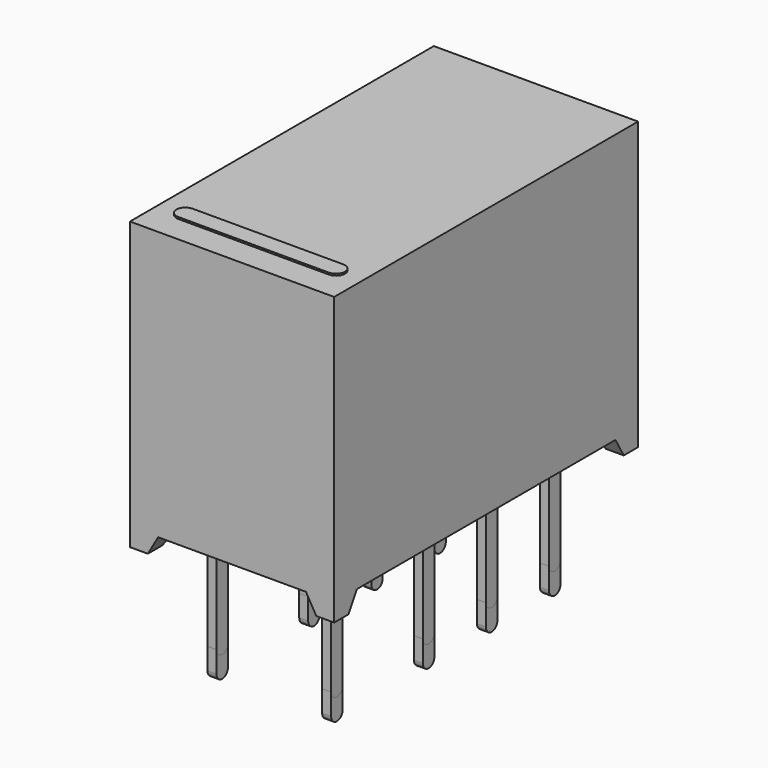
from build123d import *

# Parameters (mm, degrees)
SKETCH_W                      = 5.7
SKETCH_H                      = 10.6
PAD_DEPTH                     = 8
POCKET_DEPTH                  = 5.701
POCKET005_DEPTH               = 10.601
POCKET006_DEPTH               = 0.1
POCKET006_MIRRORED_2_DEPTH    = 0.1
PAD011_DEPTH                  = 0.05
PAD012_DEPTH                  = 0.05
PAD005_DEPTH                  = 0.125
ARRAY001_Y_COUNT              = 3
ARRAY001_Y_PITCH              = 2.2
ARRAY_Y_COUNT                 = 3
ARRAY_Y_PITCH                 = 2.2
SKETCH023_W                   = 5.7
SKETCH023_H                   = 10.6
PAD013_DEPTH                  = 8
POCKET008_DEPTH               = 5.701
POCKET009_DEPTH               = 10.601
POCKET007_DEPTH               = 0.1
POCKET007_MIRRORED002_2_DEPTH = 0.1
PAD017_DEPTH                  = 0.05
PAD016_DEPTH                  = 0.05
PAD014_DEPTH                  = 0.125
ARRAY003_Y_COUNT              = 3
ARRAY003_Y_PITCH              = 2.2
ARRAY002_Y_COUNT              = 3
ARRAY002_Y_PITCH              = 2.2
SKETCH029_W                   = 5.7
SKETCH029_H                   = 10.6
PAD019_DEPTH                  = 8
POCKET010_DEPTH               = 5.701
POCKET012_DEPTH               = 10.601
POCKET011_DEPTH               = 0.1
POCKET011_MIRRORED004_2_DEPTH = 0.1
PAD021_DEPTH                  = 0.05
PAD022_DEPTH                  = 0.05
PAD018_DEPTH                  = 0.125
ARRAY005_Y_COUNT              = 3
ARRAY005_Y_PITCH              = 2.2
ARRAY004_Y_COUNT              = 3
ARRAY004_Y_PITCH              = 2.2
SKETCH036_W                   = 5.7
SKETCH036_H                   = 10.6
PAD024_DEPTH                  = 8
POCKET013_DEPTH               = 5.701
POCKET015_DEPTH               = 10.601
POCKET014_DEPTH               = 0.1
POCKET014_MIRRORED006_2_DEPTH = 0.1
PAD026_DEPTH                  = 0.05
PAD027_DEPTH                  = 0.05
PAD023_DEPTH                  = 0.125
ARRAY007_Y_COUNT              = 3
ARRAY007_Y_PITCH              = 2.2
ARRAY006_Y_COUNT              = 3
ARRAY006_Y_PITCH              = 2.2
PAD029_DEPTH                  = 0.125
ARRAY008_Y_COUNT              = 3
ARRAY008_Y_PITCH              = 2.2
ARRAY009_Y_COUNT              = 3
ARRAY009_Y_PITCH              = 2.2
SKETCH040_W                   = 5.7
SKETCH040_H                   = 10.6
PAD030_DEPTH                  = 8
POCKET018_DEPTH               = 5.701
POCKET016_DEPTH               = 10.601
POCKET017_DEPTH               = 0.1
POCKET017_MIRRORED009_2_DEPTH = 0.1
PAD031_DEPTH                  = 0.05
PAD032_DEPTH                  = 0.05


with BuildPart() as obj1:
    # Sketch → Pad (new body)
    with BuildSketch(Plane.XY):
        Rectangle(SKETCH_W, SKETCH_H)
    extrude(amount=PAD_DEPTH)

    # Sketch003 (on Face2 of Pad) → Pocket (cut, through all)
    with BuildSketch(Plane(origin=(-2.85, 0, 0), x_dir=(0, -1, 0), z_dir=(-1, 0, 0))):
        Polygon((-4.8, 0), (-4.511325, 0.5), (4.511325, 0.5), (4.8, 0), align=None)
    extrude(amount=-POCKET_DEPTH, mode=Mode.SUBTRACT)

    # Sketch015 (on Face1 of Pocket) → Pocket005 (cut, through all)
    with BuildSketch(Plane.XZ.offset(5.3)):
        Polygon((-2.35, 0), (-2.061325, 0.5), (2.061325, 0.5), (2.35, 0), align=None)
    extrude(amount=-POCKET005_DEPTH, mode=Mode.SUBTRACT)

    # Sketch016 (on Face18 of Pocket005) → Pocket006 (cut)
    with BuildSketch(Plane(origin=(0, 0, 0.5), x_dir=(1, 0, 0), z_dir=(0, 0, -1))):
        Polygon((0, 0), (-2.65, 0), (-2.65, 4.311325), (-1.861325, 4.311325), (-1.861325, 5.1), (0, 5.1), align=None)
    pocket006 = extrude(amount=-POCKET006_DEPTH, mode=Mode.SUBTRACT)

    # Sketch016 Mirrored 2 → Pocket006 Mirrored 2 (cut)
    with BuildSketch(Plane(origin=(0, 0, 0.5), x_dir=(-1, 0, 0), z_dir=(0, 0, 1))):
        Polygon((0, 0), (-2.65, 0), (-2.65, 4.311325), (-1.861325, 4.311325), (-1.861325, 5.1), (0, 5.1), align=None)
    pocket006_mirrored_2 = extrude(amount=POCKET006_MIRRORED_2_DEPTH, mode=Mode.SUBTRACT)

    # Mirrored001: Pocket006, Pocket006 Mirrored 2 across XZ
    add(pocket006.mirror(Plane.XZ), mode=Mode.SUBTRACT)
    add(pocket006_mirrored_2.mirror(Plane.XZ), mode=Mode.SUBTRACT)

    # Sketch017 (on Face31 of MultiTransform) → Pad011 (join)
    with BuildSketch(Plane(origin=(0, 0, 0.6), x_dir=(1, 0, 0), z_dir=(0, 0, -1))):
        with BuildLine():
            Line((-1.136458, 2.948943), (1.092037, 2.888533))
            ThreePointArc((1.487685, 2.487288), (1.370611, 2.767535), (1.092037, 2.888533))
            Line((1.487685, 2.487288), (1.553104, -2.523073))
            ThreePointArc((1.146435, -2.935086), (1.435889, -2.814082), (1.553104, -2.523073))
            Line((1.146435, -2.935086), (-1.147479, -2.935086))
            ThreePointArc((-1.554182, -2.528383), (-1.435062, -2.815965), (-1.147479, -2.935086))
            Line((-1.554182, -2.528383), (-1.554182, 2.542389))
            ThreePointArc((-1.136458, 2.948943), (-1.431138, 2.833843), (-1.554182, 2.542389))
        make_face()
    extrude(amount=PAD011_DEPTH)

    # Sketch018 (on Face8 of Pad011) → Pad012 (join)
    with BuildSketch(Plane.XY.offset(8)):
        with BuildLine():
            ThreePointArc((-2.1, -4.05), (-2.35, -4.3), (-2.1, -4.55))
            Line((-2.1, -4.55), (2.1, -4.55))
            ThreePointArc((2.1, -4.55), (2.35, -4.3), (2.1, -4.05))
            Line((-2.1, -4.05), (2.1, -4.05))
        make_face()
    extrude(amount=PAD012_DEPTH)


with BuildPart() as body001:
    # Sketch009 → Pad005 (new body, symmetric)
    with BuildSketch(Plane.YZ.offset(1.6)):
        with BuildLine():
            ThreePointArc((-0.2, -3.2), (0, -3.4), (0.2, -3.2))
            Line((0.2, 0.5), (0.2, -3.2))
            Line((-0.2, 0.5), (0.2, 0.5))
            Line((-0.2, -3.2), (-0.2, 0.5))
        make_face()
    extrude(amount=PAD005_DEPTH, both=True)


with BuildPart() as body001_1:
    # Body001 placement: moved
    add(body001.part.moved(Location((0, -3.8, 0))))


with BuildPart() as body002:
    # Body002 base: copy of Body001
    add(body001_1.part)


with BuildPart() as body002_1:
    # Body002 placement: moved
    add(body002.part.moved(Location((-3.2, 0, 0))))


with BuildPart() as array001:
    # Body004 base: copy of Body002
    add(body002_1.part)


with BuildPart() as array001_1:
    # Body004 placement: moved
    add(array001.part.moved(Location((0, 3.2, 0))))

    # Array001 Y: Array001 ×3


with BuildPart() as array001_2:
    add(array001_1.part)
    with Locations(*[(0, i * ARRAY001_Y_PITCH, 0) for i in range(1, ARRAY001_Y_COUNT)]):
        add(array001_1.part)


with BuildPart() as obj2:
    # Body003 base: copy of Body001
    add(body001_1.part)


with BuildPart() as obj2_1:
    # Body003 placement: moved
    add(obj2.part.moved(Location((0, 3.2, 0))))

    # Array Y: obj2 ×3


with BuildPart() as obj2_2:
    add(obj2_1.part)
    with Locations(*[(0, i * ARRAY_Y_PITCH, 0) for i in range(1, ARRAY_Y_COUNT)]):
        add(obj2_1.part)

    # Fusion: union Array001, Body001, Body002
    add(array001_2.part)
    add(body001_1.part)
    add(body002_1.part)


with BuildPart() as obj3:
    # Sketch023 → Pad013 (new body)
    with BuildSketch(Plane.XY):
        Rectangle(SKETCH023_W, SKETCH023_H)
    extrude(amount=PAD013_DEPTH)

    # Sketch024 (on Face2 of Pad013) → Pocket008 (cut, through all)
    with BuildSketch(Plane(origin=(-2.85, 0, 0), x_dir=(0, -1, 0), z_dir=(-1, 0, 0))):
        Polygon((-4.8, 0), (-4.511325, 0.5), (4.511325, 0.5), (4.8, 0), align=None)
    extrude(amount=-POCKET008_DEPTH, mode=Mode.SUBTRACT)

    # Sketch019 (on Face1 of Pocket008) → Pocket009 (cut, through all)
    with BuildSketch(Plane.XZ.offset(5.3)):
        Polygon((-2.35, 0), (-2.061325, 0.5), (2.061325, 0.5), (2.35, 0), align=None)
    extrude(amount=-POCKET009_DEPTH, mode=Mode.SUBTRACT)

    # Sketch022 (on Face18 of Pocket009) → Pocket007 (cut)
    with BuildSketch(Plane(origin=(0, 0, 0.5), x_dir=(1, 0, 0), z_dir=(0, 0, -1))):
        Polygon((0, 0), (-2.65, 0), (-2.65, 4.311325), (-1.861325, 4.311325), (-1.861325, 5.1), (0, 5.1), align=None)
    pocket007 = extrude(amount=-POCKET007_DEPTH, mode=Mode.SUBTRACT)

    # Sketch022 Mirrored002 2 → Pocket007 Mirrored002 2 (cut)
    with BuildSketch(Plane(origin=(0, 0, 0.5), x_dir=(-1, 0, 0), z_dir=(0, 0, 1))):
        Polygon((0, 0), (-2.65, 0), (-2.65, 4.311325), (-1.861325, 4.311325), (-1.861325, 5.1), (0, 5.1), align=None)
    pocket007_mirrored002_2 = extrude(amount=POCKET007_MIRRORED002_2_DEPTH, mode=Mode.SUBTRACT)

    # Mirrored003: Pocket007, Pocket007 Mirrored002 2 across XZ
    add(pocket007.mirror(Plane.XZ), mode=Mode.SUBTRACT)
    add(pocket007_mirrored002_2.mirror(Plane.XZ), mode=Mode.SUBTRACT)

    # Sketch020 (on Face31 of MultiTransform001) → Pad017 (join)
    with BuildSketch(Plane(origin=(0, 0, 0.6), x_dir=(1, 0, 0), z_dir=(0, 0, -1))):
        with BuildLine():
            Line((-1.136458, 2.948943), (1.092037, 2.888533))
            ThreePointArc((1.487685, 2.487288), (1.370611, 2.767535), (1.092037, 2.888533))
            Line((1.487685, 2.487288), (1.553104, -2.523073))
            ThreePointArc((1.146435, -2.935086), (1.435889, -2.814082), (1.553104, -2.523073))
            Line((1.146435, -2.935086), (-1.147479, -2.935086))
            ThreePointArc((-1.554182, -2.528383), (-1.435062, -2.815965), (-1.147479, -2.935086))
            Line((-1.554182, -2.528383), (-1.554182, 2.542389))
            ThreePointArc((-1.136458, 2.948943), (-1.431138, 2.833843), (-1.554182, 2.542389))
        make_face()
    extrude(amount=PAD017_DEPTH)

    # Sketch021 (on Face8 of Pad017) → Pad016 (join)
    with BuildSketch(Plane.XY.offset(8)):
        with BuildLine():
            ThreePointArc((-2.1, -4.05), (-2.35, -4.3), (-2.1, -4.55))
            Line((-2.1, -4.55), (2.1, -4.55))
            ThreePointArc((2.1, -4.55), (2.35, -4.3), (2.1, -4.05))
            Line((-2.1, -4.05), (2.1, -4.05))
        make_face()
    extrude(amount=PAD016_DEPTH)


with BuildPart() as body007:
    # Sketch025 → Pad014 (new body, symmetric)
    with BuildSketch(Plane.YZ.offset(1.6)):
        with BuildLine():
            ThreePointArc((-0.2, -3.2), (0, -3.4), (0.2, -3.2))
            Line((0.2, 0.5), (0.2, -3.2))
            Line((-0.2, 0.5), (0.2, 0.5))
            Line((-0.2, -3.2), (-0.2, 0.5))
        make_face()
    extrude(amount=PAD014_DEPTH, both=True)


with BuildPart() as body007_1:
    # Body007 placement: moved
    add(body007.part.moved(Location((0, -3.8, 0))))


with BuildPart() as body009:
    # Body009 base: copy of Body007
    add(body007_1.part)


with BuildPart() as body009_1:
    # Body009 placement: moved
    add(body009.part.moved(Location((-3.2, 0, 0))))


with BuildPart() as array003:
    # Body005 base: copy of Body009
    add(body009_1.part)


with BuildPart() as array003_1:
    # Body005 placement: moved
    add(array003.part.moved(Location((0, 3.2, 0))))

    # Array003 Y: Array003 ×3


with BuildPart() as array003_2:
    add(array003_1.part)
    with Locations(*[(0, i * ARRAY003_Y_PITCH, 0) for i in range(1, ARRAY003_Y_COUNT)]):
        add(array003_1.part)


with BuildPart() as obj4:
    # Body006 base: copy of Body007
    add(body007_1.part)


with BuildPart() as obj4_1:
    # Body006 placement: moved
    add(obj4.part.moved(Location((0, 3.2, 0))))

    # Array002 Y: obj4 ×3


with BuildPart() as obj4_2:
    add(obj4_1.part)
    with Locations(*[(0, i * ARRAY002_Y_PITCH, 0) for i in range(1, ARRAY002_Y_COUNT)]):
        add(obj4_1.part)

    # Fusion001: union Array003, Body007, Body009
    add(array003_2.part)
    add(body007_1.part)
    add(body009_1.part)


with BuildPart() as obj5:
    # Sketch029 → Pad019 (new body)
    with BuildSketch(Plane.XY):
        Rectangle(SKETCH029_W, SKETCH029_H)
    extrude(amount=PAD019_DEPTH)

    # Sketch026 (on Face2 of Pad019) → Pocket010 (cut, through all)
    with BuildSketch(Plane(origin=(-2.85, 0, 0), x_dir=(0, -1, 0), z_dir=(-1, 0, 0))):
        Polygon((-4.8, 0), (-4.511325, 0.5), (4.511325, 0.5), (4.8, 0), align=None)
    extrude(amount=-POCKET010_DEPTH, mode=Mode.SUBTRACT)

    # Sketch030 (on Face1 of Pocket010) → Pocket012 (cut, through all)
    with BuildSketch(Plane.XZ.offset(5.3)):
        Polygon((-2.35, 0), (-2.061325, 0.5), (2.061325, 0.5), (2.35, 0), align=None)
    extrude(amount=-POCKET012_DEPTH, mode=Mode.SUBTRACT)

    # Sketch032 (on Face18 of Pocket012) → Pocket011 (cut)
    with BuildSketch(Plane(origin=(0, 0, 0.5), x_dir=(1, 0, 0), z_dir=(0, 0, -1))):
        Polygon((0, 0), (-2.65, 0), (-2.65, 4.311325), (-1.861325, 4.311325), (-1.861325, 5.1), (0, 5.1), align=None)
    pocket011 = extrude(amount=-POCKET011_DEPTH, mode=Mode.SUBTRACT)

    # Sketch032 Mirrored004 2 → Pocket011 Mirrored004 2 (cut)
    with BuildSketch(Plane(origin=(0, 0, 0.5), x_dir=(-1, 0, 0), z_dir=(0, 0, 1))):
        Polygon((0, 0), (-2.65, 0), (-2.65, 4.311325), (-1.861325, 4.311325), (-1.861325, 5.1), (0, 5.1), align=None)
    pocket011_mirrored004_2 = extrude(amount=POCKET011_MIRRORED004_2_DEPTH, mode=Mode.SUBTRACT)

    # Mirrored005: Pocket011, Pocket011 Mirrored004 2 across XZ
    add(pocket011.mirror(Plane.XZ), mode=Mode.SUBTRACT)
    add(pocket011_mirrored004_2.mirror(Plane.XZ), mode=Mode.SUBTRACT)

    # Sketch031 (on Face31 of MultiTransform002) → Pad021 (join)
    with BuildSketch(Plane(origin=(0, 0, 0.6), x_dir=(1, 0, 0), z_dir=(0, 0, -1))):
        with BuildLine():
            Line((-1.136458, 2.948943), (1.092037, 2.888533))
            ThreePointArc((1.487685, 2.487288), (1.370611, 2.767535), (1.092037, 2.888533))
            Line((1.487685, 2.487288), (1.553104, -2.523073))
            ThreePointArc((1.146435, -2.935086), (1.435889, -2.814082), (1.553104, -2.523073))
            Line((1.146435, -2.935086), (-1.147479, -2.935086))
            ThreePointArc((-1.554182, -2.528383), (-1.435062, -2.815965), (-1.147479, -2.935086))
            Line((-1.554182, -2.528383), (-1.554182, 2.542389))
            ThreePointArc((-1.136458, 2.948943), (-1.431138, 2.833843), (-1.554182, 2.542389))
        make_face()
    extrude(amount=PAD021_DEPTH)

    # Sketch028 (on Face8 of Pad021) → Pad022 (join)
    with BuildSketch(Plane.XY.offset(8)):
        with BuildLine():
            ThreePointArc((-2.1, -4.05), (-2.35, -4.3), (-2.1, -4.55))
            Line((-2.1, -4.55), (2.1, -4.55))
            ThreePointArc((2.1, -4.55), (2.35, -4.3), (2.1, -4.05))
            Line((-2.1, -4.05), (2.1, -4.05))
        make_face()
    extrude(amount=PAD022_DEPTH)


with BuildPart() as body014:
    # Sketch027 → Pad018 (new body, symmetric)
    with BuildSketch(Plane.YZ.offset(1.6)):
        with BuildLine():
            ThreePointArc((-0.2, -2.6), (0, -2.8), (0.2, -2.6))
            Line((0.2, 0.5), (0.2, -2.6))
            Line((-0.2, 0.5), (0.2, 0.5))
            Line((-0.2, -2.6), (-0.2, 0.5))
        make_face()
    extrude(amount=PAD018_DEPTH, both=True)


with BuildPart() as body014_1:
    # Body014 placement: moved
    add(body014.part.moved(Location((0, -3.8, 0))))


with BuildPart() as body013:
    # Body013 base: copy of Body014
    add(body014_1.part)


with BuildPart() as body013_1:
    # Body013 placement: moved
    add(body013.part.moved(Location((-3.2, 0, 0))))


with BuildPart() as array005:
    # Body011 base: copy of Body013
    add(body013_1.part)


with BuildPart() as array005_1:
    # Body011 placement: moved
    add(array005.part.moved(Location((0, 3.2, 0))))

    # Array005 Y: Array005 ×3


with BuildPart() as array005_2:
    add(array005_1.part)
    with Locations(*[(0, i * ARRAY005_Y_PITCH, 0) for i in range(1, ARRAY005_Y_COUNT)]):
        add(array005_1.part)


with BuildPart() as obj6:
    # Body010 base: copy of Body014
    add(body014_1.part)


with BuildPart() as obj6_1:
    # Body010 placement: moved
    add(obj6.part.moved(Location((0, 3.2, 0))))

    # Array004 Y: obj6 ×3


with BuildPart() as obj6_2:
    add(obj6_1.part)
    with Locations(*[(0, i * ARRAY004_Y_PITCH, 0) for i in range(1, ARRAY004_Y_COUNT)]):
        add(obj6_1.part)

    # Fusion002: union Array005, Body014, Body013
    add(array005_2.part)
    add(body014_1.part)
    add(body013_1.part)


with BuildPart() as obj7:
    # Sketch036 → Pad024 (new body)
    with BuildSketch(Plane.XY):
        Rectangle(SKETCH036_W, SKETCH036_H)
    extrude(amount=PAD024_DEPTH)

    # Sketch033 (on Face2 of Pad024) → Pocket013 (cut, through all)
    with BuildSketch(Plane(origin=(-2.85, 0, 0), x_dir=(0, -1, 0), z_dir=(-1, 0, 0))):
        Polygon((-4.8, 0), (-4.511325, 0.5), (4.511325, 0.5), (4.8, 0), align=None)
    extrude(amount=-POCKET013_DEPTH, mode=Mode.SUBTRACT)

    # Sketch037 (on Face1 of Pocket013) → Pocket015 (cut, through all)
    with BuildSketch(Plane.XZ.offset(5.3)):
        Polygon((-2.35, 0), (-2.061325, 0.5), (2.061325, 0.5), (2.35, 0), align=None)
    extrude(amount=-POCKET015_DEPTH, mode=Mode.SUBTRACT)

    # Sketch039 (on Face18 of Pocket015) → Pocket014 (cut)
    with BuildSketch(Plane(origin=(0, 0, 0.5), x_dir=(1, 0, 0), z_dir=(0, 0, -1))):
        Polygon((0, 0), (-2.65, 0), (-2.65, 4.311325), (-1.861325, 4.311325), (-1.861325, 5.1), (0, 5.1), align=None)
    pocket014 = extrude(amount=-POCKET014_DEPTH, mode=Mode.SUBTRACT)

    # Sketch039 Mirrored006 2 → Pocket014 Mirrored006 2 (cut)
    with BuildSketch(Plane(origin=(0, 0, 0.5), x_dir=(-1, 0, 0), z_dir=(0, 0, 1))):
        Polygon((0, 0), (-2.65, 0), (-2.65, 4.311325), (-1.861325, 4.311325), (-1.861325, 5.1), (0, 5.1), align=None)
    pocket014_mirrored006_2 = extrude(amount=POCKET014_MIRRORED006_2_DEPTH, mode=Mode.SUBTRACT)

    # Mirrored007: Pocket014, Pocket014 Mirrored006 2 across XZ
    add(pocket014.mirror(Plane.XZ), mode=Mode.SUBTRACT)
    add(pocket014_mirrored006_2.mirror(Plane.XZ), mode=Mode.SUBTRACT)

    # Sketch038 (on Face31 of MultiTransform003) → Pad026 (join)
    with BuildSketch(Plane(origin=(0, 0, 0.6), x_dir=(1, 0, 0), z_dir=(0, 0, -1))):
        with BuildLine():
            Line((-1.136458, 2.948943), (1.092037, 2.888533))
            ThreePointArc((1.487685, 2.487288), (1.370611, 2.767535), (1.092037, 2.888533))
            Line((1.487685, 2.487288), (1.553104, -2.523073))
            ThreePointArc((1.146435, -2.935086), (1.435889, -2.814082), (1.553104, -2.523073))
            Line((1.146435, -2.935086), (-1.147479, -2.935086))
            ThreePointArc((-1.554182, -2.528383), (-1.435062, -2.815965), (-1.147479, -2.935086))
            Line((-1.554182, -2.528383), (-1.554182, 2.542389))
            ThreePointArc((-1.136458, 2.948943), (-1.431138, 2.833843), (-1.554182, 2.542389))
        make_face()
    extrude(amount=PAD026_DEPTH)

    # Sketch035 (on Face8 of Pad026) → Pad027 (join)
    with BuildSketch(Plane.XY.offset(8)):
        with BuildLine():
            ThreePointArc((-2.1, -4.05), (-2.35, -4.3), (-2.1, -4.55))
            Line((-2.1, -4.55), (2.1, -4.55))
            ThreePointArc((2.1, -4.55), (2.35, -4.3), (2.1, -4.05))
            Line((-2.1, -4.05), (2.1, -4.05))
        make_face()
    extrude(amount=PAD027_DEPTH)


with BuildPart() as body019:
    # Sketch034 → Pad023 (new body, symmetric)
    with BuildSketch(Plane.YZ.offset(1.6)):
        with BuildLine():
            ThreePointArc((-0.2, -3.2), (0, -3.4), (0.2, -3.2))
            Line((0.2, 0.5), (0.2, -3.2))
            Line((-0.2, 0.5), (0.2, 0.5))
            Line((-0.2, -3.2), (-0.2, 0.5))
        make_face()
    extrude(amount=PAD023_DEPTH, both=True)


with BuildPart() as body019_1:
    # Body019 placement: moved
    add(body019.part.moved(Location((0, -3.8, 0))))


with BuildPart() as body018:
    # Body018 base: copy of Body019
    add(body019_1.part)


with BuildPart() as body018_1:
    # Body018 placement: moved
    add(body018.part.moved(Location((-3.2, 0, 0))))


with BuildPart() as array007:
    # Body016 base: copy of Body018
    add(body018_1.part)


with BuildPart() as array007_1:
    # Body016 placement: moved
    add(array007.part.moved(Location((0, 3.2, 0))))

    # Array007 Y: Array007 ×3


with BuildPart() as array007_2:
    add(array007_1.part)
    with Locations(*[(0, i * ARRAY007_Y_PITCH, 0) for i in range(1, ARRAY007_Y_COUNT)]):
        add(array007_1.part)


with BuildPart() as obj8:
    # Body015 base: copy of Body019
    add(body019_1.part)


with BuildPart() as obj8_1:
    # Body015 placement: moved
    add(obj8.part.moved(Location((0, 3.2, 0))))

    # Array006 Y: obj8 ×3


with BuildPart() as obj8_2:
    add(obj8_1.part)
    with Locations(*[(0, i * ARRAY006_Y_PITCH, 0) for i in range(1, ARRAY006_Y_COUNT)]):
        add(obj8_1.part)

    # Fusion003: union Array007, Body019, Body018
    add(array007_2.part)
    add(body019_1.part)
    add(body018_1.part)


with BuildPart() as body020:
    # Sketch043 → Pad029 (new body, symmetric)
    with BuildSketch(Plane.YZ.offset(1.6)):
        with BuildLine():
            ThreePointArc((-0.2, -2.6), (0, -2.8), (0.2, -2.6))
            Line((0.2, 0.5), (0.2, -2.6))
            Line((-0.2, 0.5), (0.2, 0.5))
            Line((-0.2, -2.6), (-0.2, 0.5))
        make_face()
    extrude(amount=PAD029_DEPTH, both=True)


with BuildPart() as body020_1:
    # Body020 placement: moved
    add(body020.part.moved(Location((0, -3.8, 0))))


with BuildPart() as body023:
    # Body023 base: copy of Body020
    add(body020_1.part)


with BuildPart() as body023_1:
    # Body023 placement: moved
    add(body023.part.moved(Location((-3.2, 0, 0))))


with BuildPart() as array008:
    # Body021 base: copy of Body023
    add(body023_1.part)


with BuildPart() as array008_1:
    # Body021 placement: moved
    add(array008.part.moved(Location((0, 3.2, 0))))

    # Array008 Y: Array008 ×3


with BuildPart() as array008_2:
    add(array008_1.part)
    with Locations(*[(0, i * ARRAY008_Y_PITCH, 0) for i in range(1, ARRAY008_Y_COUNT)]):
        add(array008_1.part)


with BuildPart() as obj9:
    # Body022 base: copy of Body020
    add(body020_1.part)


with BuildPart() as obj9_1:
    # Body022 placement: moved
    add(obj9.part.moved(Location((0, 3.2, 0))))

    # Array009 Y: obj9 ×3


with BuildPart() as obj9_2:
    add(obj9_1.part)
    with Locations(*[(0, i * ARRAY009_Y_PITCH, 0) for i in range(1, ARRAY009_Y_COUNT)]):
        add(obj9_1.part)

    # Fusion004: union Array008, Body020, Body023
    add(array008_2.part)
    add(body020_1.part)
    add(body023_1.part)


with BuildPart() as obj10:
    # Sketch040 → Pad030 (new body)
    with BuildSketch(Plane.XY):
        Rectangle(SKETCH040_W, SKETCH040_H)
    extrude(amount=PAD030_DEPTH)

    # Sketch042 (on Face2 of Pad030) → Pocket018 (cut, through all)
    with BuildSketch(Plane(origin=(-2.85, 0, 0), x_dir=(0, -1, 0), z_dir=(-1, 0, 0))):
        Polygon((-4.8, 0), (-4.511325, 0.5), (4.511325, 0.5), (4.8, 0), align=None)
    extrude(amount=-POCKET018_DEPTH, mode=Mode.SUBTRACT)

    # Sketch045 (on Face1 of Pocket018) → Pocket016 (cut, through all)
    with BuildSketch(Plane.XZ.offset(5.3)):
        Polygon((-2.35, 0), (-2.061325, 0.5), (2.061325, 0.5), (2.35, 0), align=None)
    extrude(amount=-POCKET016_DEPTH, mode=Mode.SUBTRACT)

    # Sketch046 (on Face18 of Pocket016) → Pocket017 (cut)
    with BuildSketch(Plane(origin=(0, 0, 0.5), x_dir=(1, 0, 0), z_dir=(0, 0, -1))):
        Polygon((0, 0), (-2.65, 0), (-2.65, 4.311325), (-1.861325, 4.311325), (-1.861325, 5.1), (0, 5.1), align=None)
    pocket017 = extrude(amount=-POCKET017_DEPTH, mode=Mode.SUBTRACT)

    # Sketch046 Mirrored009 2 → Pocket017 Mirrored009 2 (cut)
    with BuildSketch(Plane(origin=(0, 0, 0.5), x_dir=(-1, 0, 0), z_dir=(0, 0, 1))):
        Polygon((0, 0), (-2.65, 0), (-2.65, 4.311325), (-1.861325, 4.311325), (-1.861325, 5.1), (0, 5.1), align=None)
    pocket017_mirrored009_2 = extrude(amount=POCKET017_MIRRORED009_2_DEPTH, mode=Mode.SUBTRACT)

    # Mirrored008: Pocket017, Pocket017 Mirrored009 2 across XZ
    add(pocket017.mirror(Plane.XZ), mode=Mode.SUBTRACT)
    add(pocket017_mirrored009_2.mirror(Plane.XZ), mode=Mode.SUBTRACT)

    # Sketch041 (on Face31 of MultiTransform004) → Pad031 (join)
    with BuildSketch(Plane(origin=(0, 0, 0.6), x_dir=(1, 0, 0), z_dir=(0, 0, -1))):
        with BuildLine():
            Line((-1.136458, 2.948943), (1.092037, 2.888533))
            ThreePointArc((1.487685, 2.487288), (1.370611, 2.767535), (1.092037, 2.888533))
            Line((1.487685, 2.487288), (1.553104, -2.523073))
            ThreePointArc((1.146435, -2.935086), (1.435889, -2.814082), (1.553104, -2.523073))
            Line((1.146435, -2.935086), (-1.147479, -2.935086))
            ThreePointArc((-1.554182, -2.528383), (-1.435062, -2.815965), (-1.147479, -2.935086))
            Line((-1.554182, -2.528383), (-1.554182, 2.542389))
            ThreePointArc((-1.136458, 2.948943), (-1.431138, 2.833843), (-1.554182, 2.542389))
        make_face()
    extrude(amount=PAD031_DEPTH)

    # Sketch044 (on Face8 of Pad031) → Pad032 (join)
    with BuildSketch(Plane.XY.offset(8)):
        with BuildLine():
            ThreePointArc((-2.1, -4.05), (-2.35, -4.3), (-2.1, -4.55))
            Line((-2.1, -4.55), (2.1, -4.55))
            ThreePointArc((2.1, -4.55), (2.35, -4.3), (2.1, -4.05))
            Line((-2.1, -4.05), (2.1, -4.05))
        make_face()
    extrude(amount=PAD032_DEPTH)


solid = Compound([obj1.part, obj2_2.part, obj3.part, obj4_2.part, obj5.part, obj6_2.part, obj7.part, obj8_2.part, obj9_2.part, obj10.part])
